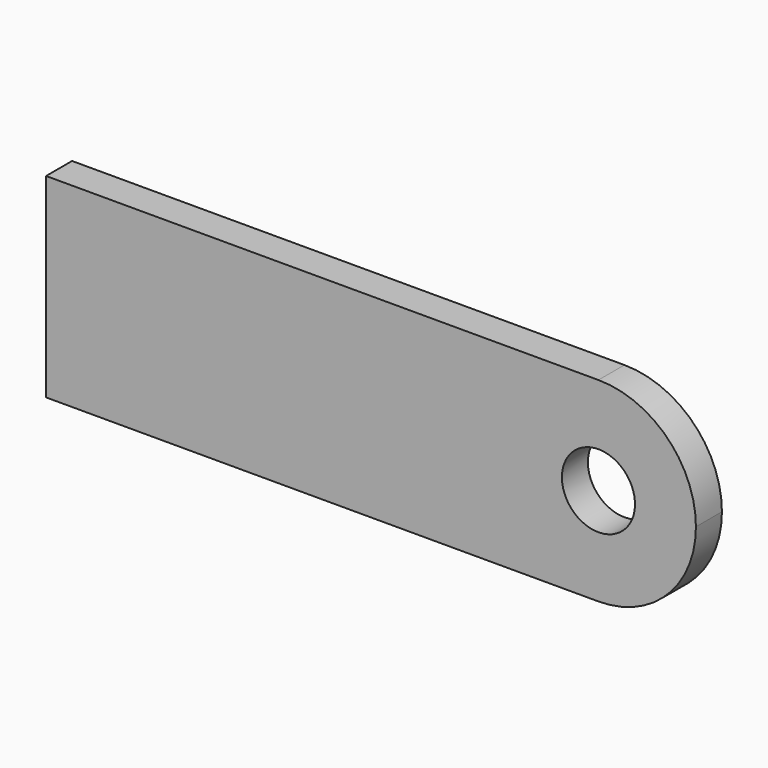
from build123d import *

# Parameters (mm, degrees)
F1_DEPTH = 12.7


with BuildPart() as f1:
    # F0 (on Front) → F1 (new body)
    with BuildSketch(Plane.XZ):
        with BuildLine():
            Line((0, 38.1), (0, 0))
            Line((0, 0), (215.9, 0))
            ThreePointArc((215.9, 0), (242.840768, 11.159232), (254, 38.1))
            ThreePointArc((254, 38.1), (242.840768, 65.040768), (215.9, 76.2))
            Line((215.9, 76.2), (0, 76.2))
            Line((0, 76.2), (0, 38.1))
        make_face()
        with BuildLine():
            ThreePointArc((230.1875, 38.1), (215.9, 23.8125), (201.6125, 38.1))
            ThreePointArc((201.6125, 38.1), (215.9, 52.3875), (230.1875, 38.1))
        make_face(mode=Mode.SUBTRACT)
    extrude(amount=F1_DEPTH)


solid = f1.part
